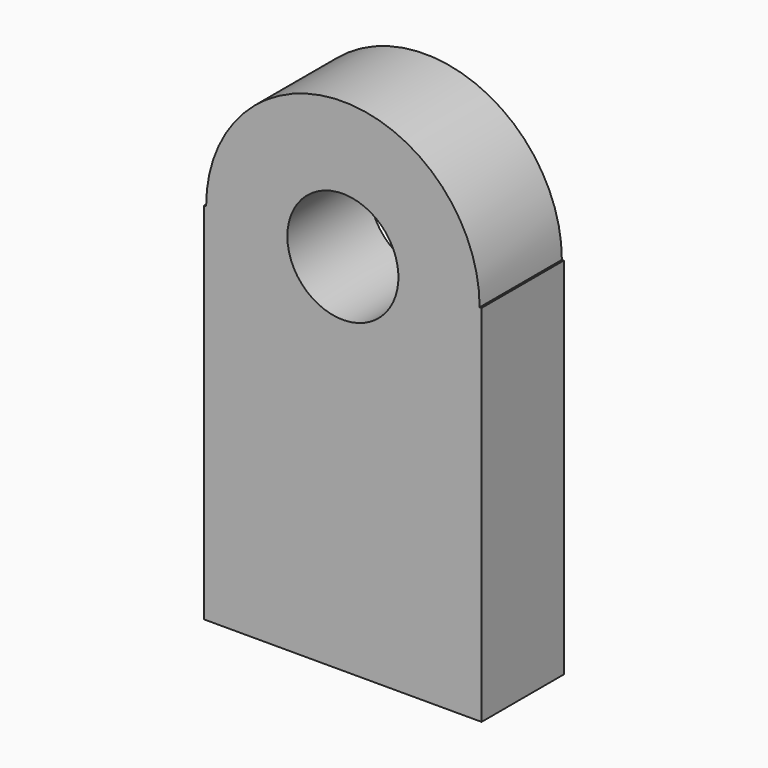
from build123d import *

# Parameters (mm, degrees)
F1_DEPTH = 31.75


with BuildPart() as f1:
    # F0 (on Front) → F1 (new body)
    with BuildSketch(Plane.XZ):
        with BuildLine():
            Line((42.8338497877, 56.2734417617), (42.2381167116, 56.2734417617))
            ThreePointArc((42.2381167116, 56.2734417617), (0, 14.0353250501), (-42.2381167116, 56.2734417617))
            Line((-42.2381167116, 56.2734417617), (-42.8338497877, 56.2734417617))
            Line((-42.8338497877, 56.2734417617), (-42.8338497877, -56.2734417617))
            Line((-42.8338497877, -56.2734417617), (42.8338497877, -56.2734417617))
            Line((42.8338497877, -56.2734417617), (42.8338497877, 56.2734417617))
        make_face()
        with BuildLine():
            Line((42.2381167116, 56.2734417617), (17.1503652003, 56.2734417617))
            ThreePointArc((17.1503652003, 56.2734417617), (0, 39.1230765614), (-17.1503652003, 56.2734417617))
            Line((-17.1503652003, 56.2734417617), (-42.2381167116, 56.2734417617))
            ThreePointArc((-42.2381167116, 56.2734417617), (0, 14.0353250501), (42.2381167116, 56.2734417617))
        make_face()
        with BuildLine():
            ThreePointArc((-17.1503652003, 56.2734417617), (0, 73.423806962), (17.1503652003, 56.2734417617))
            Line((17.1503652003, 56.2734417617), (42.2381167116, 56.2734417617))
            ThreePointArc((42.2381167116, 56.2734417617), (0, 98.5115584733), (-42.2381167116, 56.2734417617))
            Line((-42.2381167116, 56.2734417617), (-17.1503652003, 56.2734417617))
        make_face()
    extrude(amount=F1_DEPTH)


solid = f1.part
